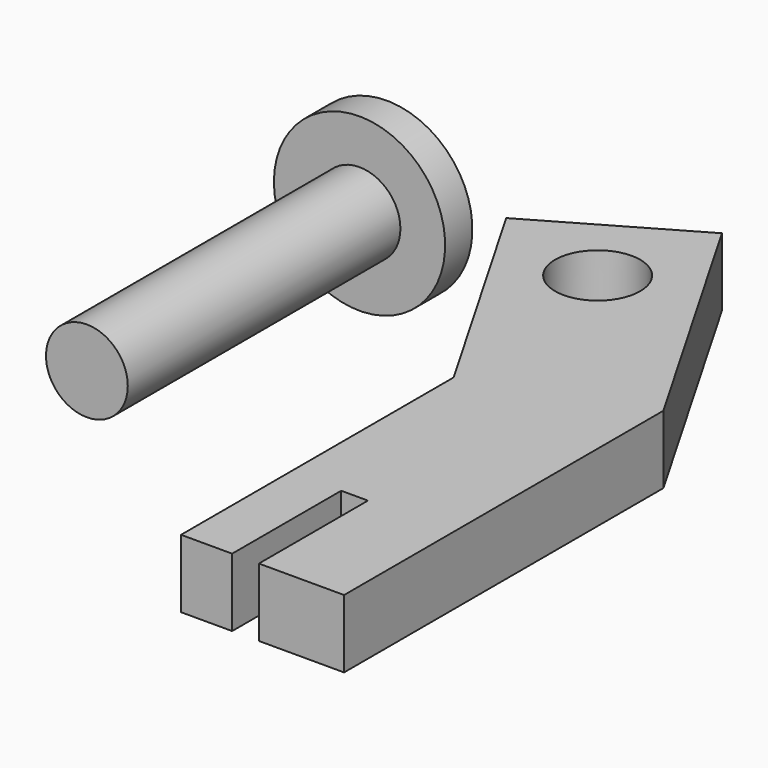
from build123d import *

# Parameters (mm, degrees)
F0_R     = 12.5
F1_DEPTH = 20
F2_R     = 12
F3_DEPTH = 100
F4_R     = 25.126873
F5_DEPTH = 10


with BuildPart() as f1:
    # F0 (on Top) → F1 (new body)
    with BuildSketch(Plane.XY):
        Polygon((0, 100), (0, 0), (15, 0), (15, 40), (22.85, 40), (22.85, 0), (47.85, 0), (47.85, 117.121369), (3.30127, 194.282032), (-40, 169.282032), align=None)
        with Locations((-5.849365, 160.131397)):
            Circle(F0_R, mode=Mode.SUBTRACT)
    extrude(amount=F1_DEPTH)


with BuildPart() as f3:
    # F2 (on Front) → F3 (new body)
    with BuildSketch(Plane.XZ):
        with Locations((-27.622849, 53.356603)):
            Circle(F2_R)
    extrude(amount=-F3_DEPTH)

    # F4 (on face) → F5 (join)
    with BuildSketch(Plane(origin=(0, 100, 0), x_dir=(-1, 0, 0), z_dir=(0, 1, 0))):
        with Locations((27.622849, 53.356603)):
            Circle(F4_R)
    extrude(amount=F5_DEPTH)


solid = Compound([f1.part, f3.part])
